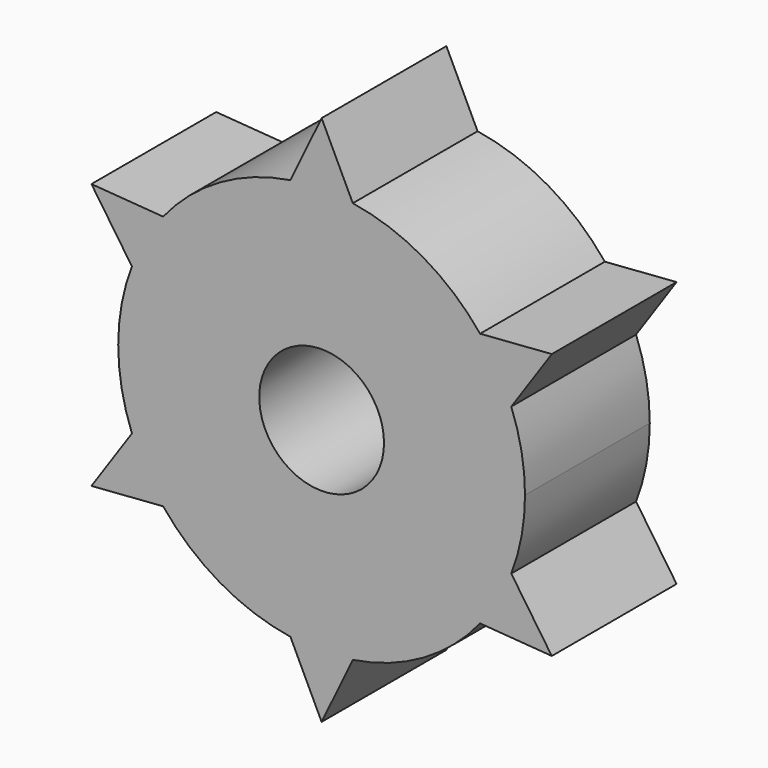
from build123d import *

# Parameters (mm, degrees)
F1_DEPTH = 25
F2_R     = 10
F3_DEPTH = 31


with BuildPart() as f1:
    # F0 (on Front) → F1 (new body)
    with BuildSketch(Plane.XZ):
        with BuildLine():
            ThreePointArc((30.401532, -11.77883), (32.048347, -5.99145), (32.603589, 0))
            ThreePointArc((32.603589, 0), (32.048347, 5.99145), (30.401532, 11.77883))
            ThreePointArc((30.401532, 11.77883), (28.235536, 16.301794), (25.401532, 20.439084))
            ThreePointArc((25.401532, 20.439084), (16.301794, 28.235536), (5, 32.217914))
            ThreePointArc((5, 32.217914), (0, 32.603589), (-5, 32.217914))
            ThreePointArc((-5, 32.217914), (-16.301794, 28.235536), (-25.401532, 20.439084))
            ThreePointArc((-25.401532, 20.439084), (-28.235536, 16.301794), (-30.401532, 11.77883))
            ThreePointArc((-30.401532, 11.77883), (-32.603589, 0), (-30.401532, -11.77883))
            ThreePointArc((-30.401532, -11.77883), (-28.235536, -16.301794), (-25.401532, -20.439084))
            ThreePointArc((-25.401532, -20.439084), (-16.301794, -28.235536), (-5, -32.217914))
            ThreePointArc((-5, -32.217914), (0, -32.603589), (5, -32.217914))
            ThreePointArc((5, -32.217914), (16.301794, -28.235536), (25.401532, -20.439084))
            ThreePointArc((25.401532, -20.439084), (28.235536, -16.301794), (30.401532, -11.77883))
        make_face()
        with BuildLine():
            ThreePointArc((25.401532, 20.439084), (28.235536, 16.301794), (30.401532, 11.77883))
            Line((30.401532, 11.77883), (36.89579, 21.301794))
            Line((36.89579, 21.301794), (25.401532, 20.439084))
        make_face()
        with BuildLine():
            Line((36.89579, -21.301794), (30.401532, -11.77883))
            ThreePointArc((30.401532, -11.77883), (28.235536, -16.301794), (25.401532, -20.439084))
            Line((25.401532, -20.439084), (36.89579, -21.301794))
        make_face()
        with BuildLine():
            ThreePointArc((-5, 32.217914), (0, 32.603589), (5, 32.217914))
            Line((5, 32.217914), (0, 42.603589))
            Line((0, 42.603589), (-5, 32.217914))
        make_face()
        with BuildLine():
            Line((0, -42.603589), (5, -32.217914))
            ThreePointArc((5, -32.217914), (0, -32.603589), (-5, -32.217914))
            Line((-5, -32.217914), (0, -42.603589))
        make_face()
        with BuildLine():
            ThreePointArc((-30.401532, 11.77883), (-28.235536, 16.301794), (-25.401532, 20.439084))
            Line((-25.401532, 20.439084), (-36.89579, 21.301794))
            Line((-36.89579, 21.301794), (-30.401532, 11.77883))
        make_face()
        with BuildLine():
            Line((-36.89579, -21.301794), (-25.401532, -20.439084))
            ThreePointArc((-25.401532, -20.439084), (-28.235536, -16.301794), (-30.401532, -11.77883))
            Line((-30.401532, -11.77883), (-36.89579, -21.301794))
        make_face()
    extrude(amount=F1_DEPTH)

    # F2 (on face) → F3 (cut)
    with BuildSketch(Plane.XZ):
        Circle(F2_R)
    extrude(amount=F3_DEPTH, mode=Mode.SUBTRACT)


solid = f1.part
